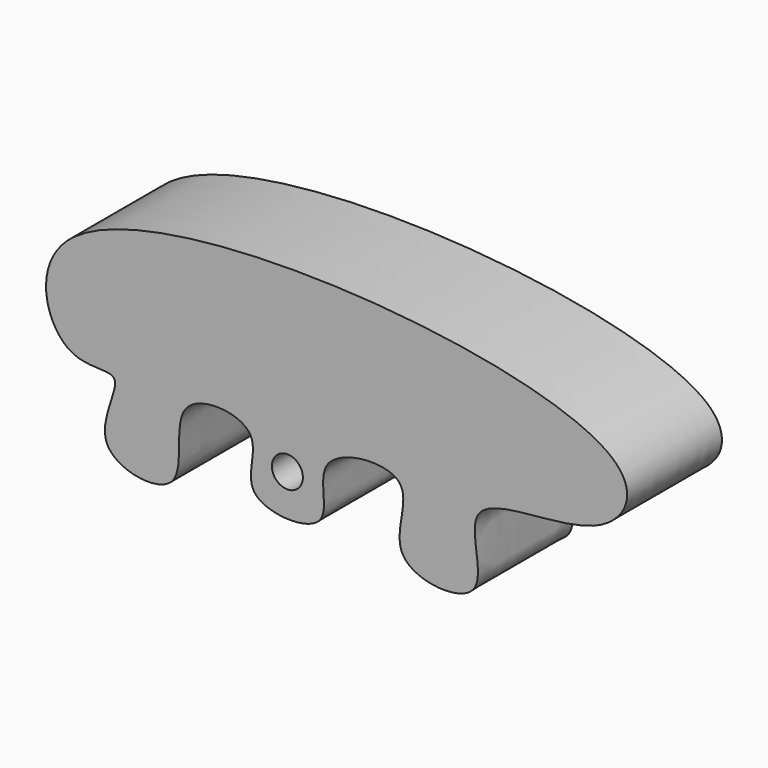
from build123d import *

# Parameters (mm, degrees)
F0_R     = 3.2677043224
F1_DEPTH = 25


with BuildPart() as f1:
    # F0 (on Front) → F1 (new body)
    with BuildSketch(Plane.XZ):
        with BuildLine():
            add(Edge.make_bspline(
                [(-7.9685812816, 4.5681018382), (-6.0216928566, 1.7034583958), (-12.3319656867, -8.9517084732), (12.1897814043, -10.0640552121), (2.8745183101, 7.1520675802), (30.2394177685, 9.6553785268), (17.9381401981, -10.8265883447), (45.7966886528, -13.297900449), (32.8345988061, 11.5805548821), (67.4876612301, 6.1044573584), (82.1162048984, 36.1922153609), (-61.4792871461, 47.0227537935), (-48.8152891845, 3.0858714711), (-31.8799895441, 8.8356644228), (-44.3405292863, -9.9904848629), (-18.4668542481, -14.3192577911), (-27.1679381333, 8.8615140538), (-10.135418733, 7.7563773533), (-7.9685812816, 4.5681018382)],
                knots=[0, 0, 0, 0, 0.0486420542, 0.1035271431, 0.1531681024, 0.210934753, 0.2651152039, 0.3222016767, 0.3783077592, 0.4538729028, 0.5084859181, 0.6676578817, 0.735326302, 0.7805267588, 0.8331353456, 0.8882456469, 0.945862627, 1, 1, 1, 1], degree=3))
        make_face()
        Circle(F0_R, mode=Mode.SUBTRACT)
    extrude(amount=F1_DEPTH)


solid = f1.part
